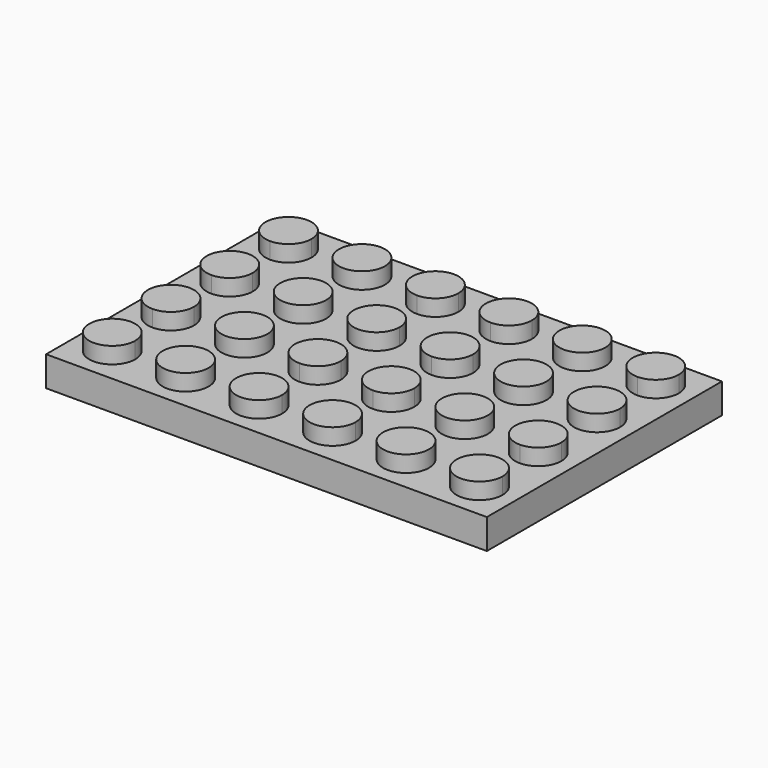
from build123d import *

# Parameters (mm, degrees)
F0_W     = 47.244
F0_H     = 31.496
F1_DEPTH = 3.20802
F2_R     = 2.4638
F3_DEPTH = 1.7526


with BuildPart() as f1:
    # F0 (on Top) → F1 (new body)
    with BuildSketch(Plane.XY):
        Rectangle(F0_W, F0_H)
    extrude(amount=F1_DEPTH)

    # F2 (on face) → F3 (join)
    with BuildSketch(Plane.XY.offset(3.20802)):
        with BuildLine():
            ThreePointArc((-17.2212, 11.811), (-21.4271696875, 13.5531696875), (-19.685, 9.3472))
            ThreePointArc((-19.685, 9.3472), (-17.9428303125, 10.0688303125), (-17.2212, 11.811))
        make_face()
        with Locations((-11.811, 11.811)):
            Circle(F2_R)
        with BuildLine():
            Line((-3.937, 11.811), (-3.937, 9.3472))
            ThreePointArc((-3.937, 9.3472), (-2.1948303125, 10.0688303125), (-1.4732, 11.811))
            ThreePointArc((-1.4732, 11.811), (-3.937, 14.2748), (-6.4008, 11.811))
            Line((-6.4008, 11.811), (-3.937, 11.811))
        make_face()
        with BuildLine():
            ThreePointArc((-6.4008, 11.811), (-5.6791696875, 10.0688303125), (-3.937, 9.3472))
            Line((-3.937, 9.3472), (-3.937, 11.811))
            Line((-3.937, 11.811), (-6.4008, 11.811))
        make_face()
        with BuildLine():
            ThreePointArc((6.4008, 11.811), (2.1948303125, 13.5531696875), (3.937, 9.3472))
            Line((3.937, 9.3472), (3.937, 11.811))
            Line((3.937, 11.811), (6.4008, 11.811))
        make_face()
        with BuildLine():
            Line((3.937, 11.811), (3.937, 9.3472))
            ThreePointArc((3.937, 9.3472), (5.6791696875, 10.0688303125), (6.4008, 11.811))
            Line((6.4008, 11.811), (3.937, 11.811))
        make_face()
        with BuildLine():
            Line((3.937, 3.937), (3.937, 1.4732))
            ThreePointArc((3.937, 1.4732), (5.6791696875, 2.1948303125), (6.4008, 3.937))
            ThreePointArc((6.4008, 3.937), (5.6791696875, 5.6791696875), (3.937, 6.4008))
            Line((3.937, 6.4008), (3.937, 3.937))
        make_face()
        with BuildLine():
            ThreePointArc((3.937, 6.4008), (1.4732, 3.937), (3.937, 1.4732))
            Line((3.937, 1.4732), (3.937, 3.937))
            Line((3.937, 3.937), (3.937, 6.4008))
        make_face()
        with BuildLine():
            Line((-3.937, 3.937), (-6.4008, 3.937))
            ThreePointArc((-6.4008, 3.937), (-3.937, 1.4732), (-1.4732, 3.937))
            ThreePointArc((-1.4732, 3.937), (-2.1948303125, 5.6791696875), (-3.937, 6.4008))
            Line((-3.937, 6.4008), (-3.937, 3.937))
        make_face()
        with BuildLine():
            ThreePointArc((-3.937, 6.4008), (-5.6791696875, 5.6791696875), (-6.4008, 3.937))
            Line((-6.4008, 3.937), (-3.937, 3.937))
            Line((-3.937, 3.937), (-3.937, 6.4008))
        make_face()
        with BuildLine():
            ThreePointArc((-9.3472, 3.937), (-11.811, 6.4008), (-14.2748, 3.937))
            Line((-14.2748, 3.937), (-11.811, 3.937))
            Line((-11.811, 3.937), (-9.3472, 3.937))
        make_face()
        with BuildLine():
            Line((-11.811, 3.937), (-14.2748, 3.937))
            ThreePointArc((-14.2748, 3.937), (-11.811, 1.4732), (-9.3472, 3.937))
            Line((-9.3472, 3.937), (-11.811, 3.937))
        make_face()
        with BuildLine():
            Line((-19.685, 6.4008), (-19.685, 3.937))
            Line((-19.685, 3.937), (-17.2212, 3.937))
            ThreePointArc((-17.2212, 3.937), (-17.9428303125, 5.6791696875), (-19.685, 6.4008))
        make_face()
        with BuildLine():
            Line((-19.685, 3.937), (-19.685, 1.4732))
            ThreePointArc((-19.685, 1.4732), (-17.9428303125, 2.1948303125), (-17.2212, 3.937))
            Line((-17.2212, 3.937), (-19.685, 3.937))
        make_face()
        with BuildLine():
            ThreePointArc((-19.685, 6.4008), (-22.1488, 3.937), (-19.685, 1.4732))
            Line((-19.685, 1.4732), (-19.685, 3.937))
            Line((-19.685, 3.937), (-19.685, 6.4008))
        make_face()
        with BuildLine():
            ThreePointArc((-17.2212, -3.937), (-17.9428303125, -2.1948303125), (-19.685, -1.4732))
            Line((-19.685, -1.4732), (-19.685, -3.937))
            Line((-19.685, -3.937), (-17.2212, -3.937))
        make_face()
        with BuildLine():
            Line((-17.2212, -3.937), (-19.685, -3.937))
            Line((-19.685, -3.937), (-19.685, -6.4008))
            ThreePointArc((-19.685, -6.4008), (-17.9428303125, -5.6791696875), (-17.2212, -3.937))
        make_face()
        with BuildLine():
            Line((-19.685, -3.937), (-19.685, -1.4732))
            ThreePointArc((-19.685, -1.4732), (-22.1488, -3.937), (-19.685, -6.4008))
            Line((-19.685, -6.4008), (-19.685, -3.937))
        make_face()
        with BuildLine():
            ThreePointArc((-9.3472, -3.937), (-11.811, -1.4732), (-14.2748, -3.937))
            Line((-14.2748, -3.937), (-11.811, -3.937))
            Line((-11.811, -3.937), (-9.3472, -3.937))
        make_face()
        with BuildLine():
            Line((-11.811, -3.937), (-14.2748, -3.937))
            ThreePointArc((-14.2748, -3.937), (-11.811, -6.4008), (-9.3472, -3.937))
            Line((-9.3472, -3.937), (-11.811, -3.937))
        make_face()
        with BuildLine():
            Line((-3.937, -3.937), (-6.4008, -3.937))
            ThreePointArc((-6.4008, -3.937), (-5.6791696875, -5.6791696875), (-3.937, -6.4008))
            Line((-3.937, -6.4008), (-3.937, -3.937))
        make_face()
        with BuildLine():
            ThreePointArc((-1.4732, -3.937), (-3.937, -1.4732), (-6.4008, -3.937))
            Line((-6.4008, -3.937), (-3.937, -3.937))
            Line((-3.937, -3.937), (-3.937, -6.4008))
            ThreePointArc((-3.937, -6.4008), (-2.1948303125, -5.6791696875), (-1.4732, -3.937))
        make_face()
        with BuildLine():
            ThreePointArc((-1.4732, -11.811), (-2.1948303125, -10.0688303125), (-3.937, -9.3472))
            Line((-3.937, -9.3472), (-3.937, -11.811))
            Line((-3.937, -11.811), (-6.4008, -11.811))
            ThreePointArc((-6.4008, -11.811), (-3.937, -14.2748), (-1.4732, -11.811))
        make_face()
        with BuildLine():
            Line((-3.937, -11.811), (-3.937, -9.3472))
            ThreePointArc((-3.937, -9.3472), (-5.6791696875, -10.0688303125), (-6.4008, -11.811))
            Line((-6.4008, -11.811), (-3.937, -11.811))
        make_face()
        with Locations((-11.811, -11.811)):
            Circle(F2_R)
        with BuildLine():
            ThreePointArc((-17.2212, -11.811), (-17.9428303125, -10.0688303125), (-19.685, -9.3472))
            ThreePointArc((-19.685, -9.3472), (-21.4271696875, -13.5531696875), (-17.2212, -11.811))
        make_face()
        with BuildLine():
            Line((3.937, -11.811), (3.937, -9.3472))
            ThreePointArc((3.937, -9.3472), (2.1948303125, -13.5531696875), (6.4008, -11.811))
            Line((6.4008, -11.811), (3.937, -11.811))
        make_face()
        with BuildLine():
            ThreePointArc((6.4008, -11.811), (5.6791696875, -10.0688303125), (3.937, -9.3472))
            Line((3.937, -9.3472), (3.937, -11.811))
            Line((3.937, -11.811), (6.4008, -11.811))
        make_face()
        with BuildLine():
            ThreePointArc((6.4008, -3.937), (5.6791696875, -2.1948303125), (3.937, -1.4732))
            Line((3.937, -1.4732), (3.937, -3.937))
            Line((3.937, -3.937), (3.937, -6.4008))
            ThreePointArc((3.937, -6.4008), (5.6791696875, -5.6791696875), (6.4008, -3.937))
        make_face()
        with BuildLine():
            Line((3.937, -3.937), (3.937, -1.4732))
            ThreePointArc((3.937, -1.4732), (1.4732, -3.937), (3.937, -6.4008))
            Line((3.937, -6.4008), (3.937, -3.937))
        make_face()
        with Locations((11.811, -3.937)):
            Circle(F2_R)
        with BuildLine():
            Line((19.685, -3.937), (19.685, -6.4008))
            ThreePointArc((19.685, -6.4008), (21.4271696875, -5.6791696875), (22.1488, -3.937))
            ThreePointArc((22.1488, -3.937), (19.685, -1.4732), (17.2212, -3.937))
            Line((17.2212, -3.937), (19.685, -3.937))
        make_face()
        with BuildLine():
            ThreePointArc((17.2212, -3.937), (17.9428303125, -5.6791696875), (19.685, -6.4008))
            Line((19.685, -6.4008), (19.685, -3.937))
            Line((19.685, -3.937), (17.2212, -3.937))
        make_face()
        with BuildLine():
            Line((19.685, -11.811), (17.2212, -11.811))
            ThreePointArc((17.2212, -11.811), (19.685, -14.2748), (22.1488, -11.811))
            ThreePointArc((22.1488, -11.811), (21.4271696875, -10.0688303125), (19.685, -9.3472))
            Line((19.685, -9.3472), (19.685, -11.811))
        make_face()
        with BuildLine():
            ThreePointArc((19.685, -9.3472), (17.9428303125, -10.0688303125), (17.2212, -11.811))
            Line((17.2212, -11.811), (19.685, -11.811))
            Line((19.685, -11.811), (19.685, -9.3472))
        make_face()
        with BuildLine():
            ThreePointArc((14.2748, -11.811), (11.811, -9.3472), (9.3472, -11.811))
            Line((9.3472, -11.811), (11.811, -11.811))
            Line((11.811, -11.811), (14.2748, -11.811))
        make_face()
        with BuildLine():
            Line((11.811, -11.811), (9.3472, -11.811))
            ThreePointArc((9.3472, -11.811), (11.811, -14.2748), (14.2748, -11.811))
            Line((14.2748, -11.811), (11.811, -11.811))
        make_face()
        with BuildLine():
            ThreePointArc((22.1488, 3.937), (21.4271696875, 5.6791696875), (19.685, 6.4008))
            Line((19.685, 6.4008), (19.685, 3.937))
            Line((19.685, 3.937), (17.2212, 3.937))
            ThreePointArc((17.2212, 3.937), (19.685, 1.4732), (22.1488, 3.937))
        make_face()
        with BuildLine():
            Line((19.685, 3.937), (19.685, 6.4008))
            ThreePointArc((19.685, 6.4008), (17.9428303125, 5.6791696875), (17.2212, 3.937))
            Line((17.2212, 3.937), (19.685, 3.937))
        make_face()
        with Locations((11.811, 3.937)):
            Circle(F2_R)
        with BuildLine():
            Line((11.811, 11.811), (9.3472, 11.811))
            ThreePointArc((9.3472, 11.811), (11.811, 9.3472), (14.2748, 11.811))
            Line((14.2748, 11.811), (11.811, 11.811))
        make_face()
        with BuildLine():
            ThreePointArc((14.2748, 11.811), (11.811, 14.2748), (9.3472, 11.811))
            Line((9.3472, 11.811), (11.811, 11.811))
            Line((11.811, 11.811), (14.2748, 11.811))
        make_face()
        with BuildLine():
            ThreePointArc((22.1488, 11.811), (19.685, 14.2748), (17.2212, 11.811))
            Line((17.2212, 11.811), (19.685, 11.811))
            Line((19.685, 11.811), (19.685, 9.3472))
            ThreePointArc((19.685, 9.3472), (21.4271696875, 10.0688303125), (22.1488, 11.811))
        make_face()
        with BuildLine():
            Line((19.685, 11.811), (17.2212, 11.811))
            ThreePointArc((17.2212, 11.811), (17.9428303125, 10.0688303125), (19.685, 9.3472))
            Line((19.685, 9.3472), (19.685, 11.811))
        make_face()
    extrude(amount=F3_DEPTH)


solid = f1.part
